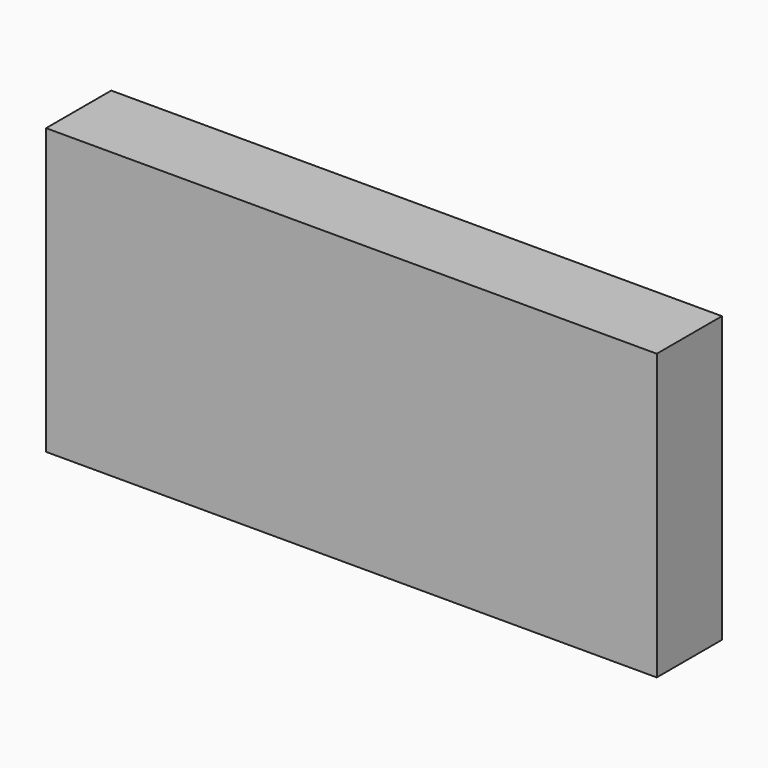
from build123d import *

# Parameters (mm, degrees)
F0_W     = 38.1
F0_H     = 17.78
F1_DEPTH = 5.08
F2_T     = -5.08
F3_T     = -2.54


with BuildPart() as f1:
    # F0 (on Front) → F1 (new body)
    with BuildSketch(Plane.XZ):
        with Locations((0.816431, -2.540001)):
            Rectangle(F0_W, F0_H)
    extrude(amount=F1_DEPTH)

    # F2
    f2_openings = [f1.faces().sort_by_distance(p)[0] for p in [
        (0.816431, 0, -2.540001),
    ]]
    offset(amount=F2_T, openings=f2_openings)

    # F3
    f3_openings = [f1.faces().sort_by_distance(p)[0] for p in [
        (0.816431, 0, -2.540001),
    ]]
    offset(amount=F3_T, openings=f3_openings)


solid = f1.part
